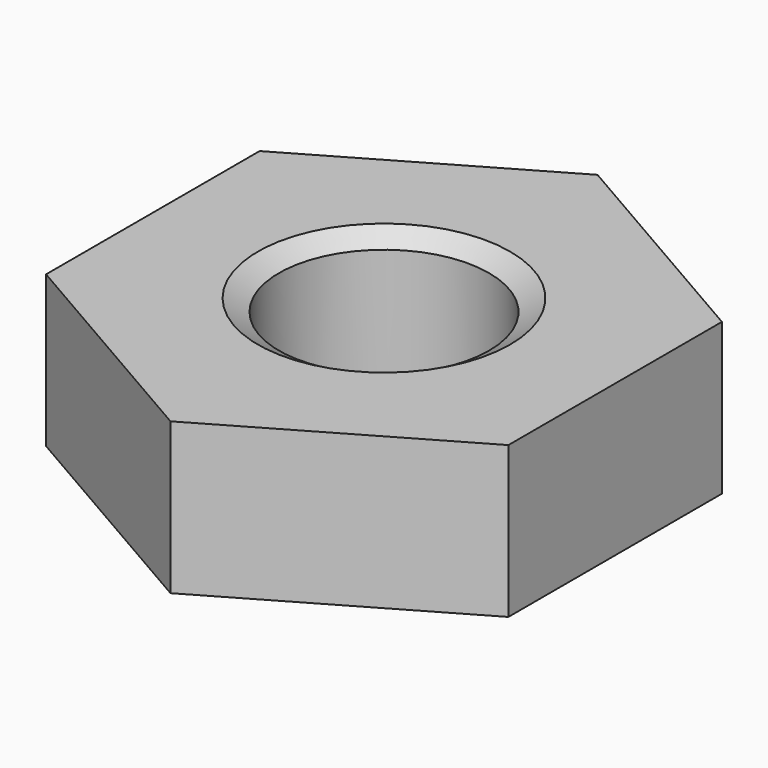
from build123d import *

# Parameters (mm, degrees)
SKETCH001_R  = 3.5
POCKET_DEPTH = 1.8


with BuildPart() as part:
    # Sketch → Revolution (revolve)
    with BuildSketch(Plane.XZ):
        Polygon((1.5, 0), (1.25, 0.144338), (1.25, 1.655662), (1.5, 1.8), (3.5, 1.8), (3.5, 0), align=None)
    revolve(axis=Axis((0, 0, 0), (0, 0, 1)))

    # Sketch001 → Pocket (cut)
    with BuildSketch(Plane(origin=(0, 0, 1.8), x_dir=(-1, 0, 0), z_dir=(0, 0, 1))):
        Circle(SKETCH001_R)
        Polygon((-2.75, 1.587713), (-2.75, -1.587713), (0, -3.175426), (2.75, -1.587713), (2.75, 1.587713), (0, 3.175426), align=None, mode=Mode.SUBTRACT)
    extrude(amount=-POCKET_DEPTH, mode=Mode.SUBTRACT)


solid = part.part
